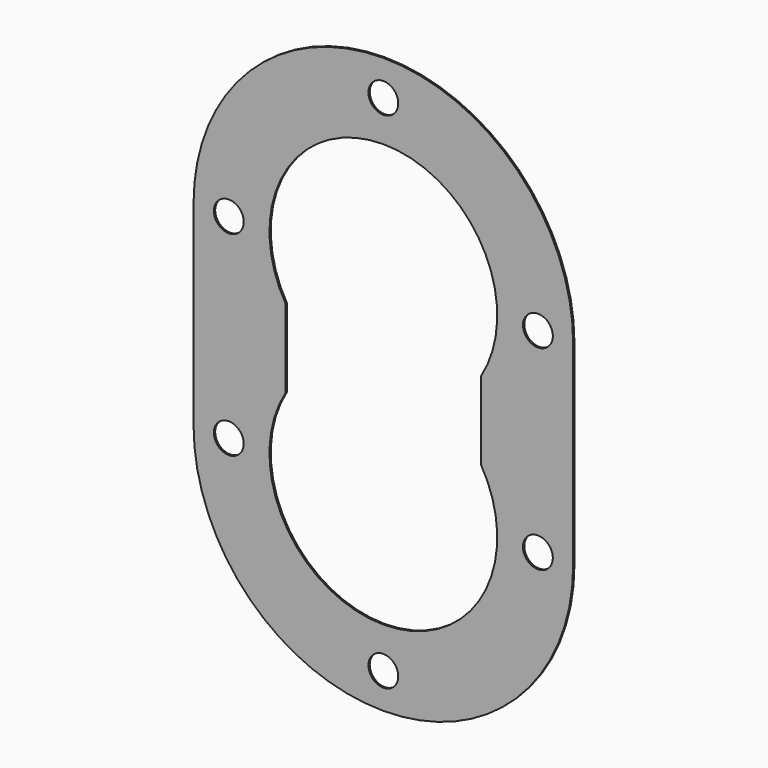
from build123d import *

# Parameters (mm, degrees)
F1_DEPTH = 0.3
F3_D     = 5.5


with BuildPart() as f1:
    # F0 (on Front) → F1 (new body)
    with BuildSketch(Plane.XZ):
        with BuildLine():
            ThreePointArc((24.494897, -61), (32.267022, -49.558735), (35, -36))
            Line((35, -36), (35, -25.483315))
            Line((35, -25.483315), (35, -18))
            Line((35, -18), (35, -10.516685))
            Line((35, -10.516685), (35, 0))
            ThreePointArc((35, 0), (0, 35), (-35, 0))
            Line((-35, 0), (-35, -10.516685))
            Line((-35, -10.516685), (-35, -18))
            Line((-35, -18), (-35, -25.483315))
            Line((-35, -25.483315), (-35, -36))
            ThreePointArc((-35, -36), (-32.267022, -49.558735), (-24.494897, -61))
            ThreePointArc((-24.494897, -61), (0, -71), (24.494897, -61))
        make_face()
        with BuildLine():
            Line((-18, -25.183346), (-18, -10.816654))
            ThreePointArc((-18, -10.816654), (0, 21), (18, -10.816654))
            Line((18, -10.816654), (18, -25.183346))
            ThreePointArc((18, -25.183346), (0, -57), (-18, -25.183346))
        make_face(mode=Mode.SUBTRACT)
    extrude(amount=F1_DEPTH)

    # F3 (through all)
    with Locations(Plane.XZ.offset(0.3)):
        with Locations((0, 28.5), (-28.5, 0), (-28.5, -36), (0, -64.5), (28.5, -36), (28.5, 0)):
            Hole(F3_D / 2)


solid = f1.part
